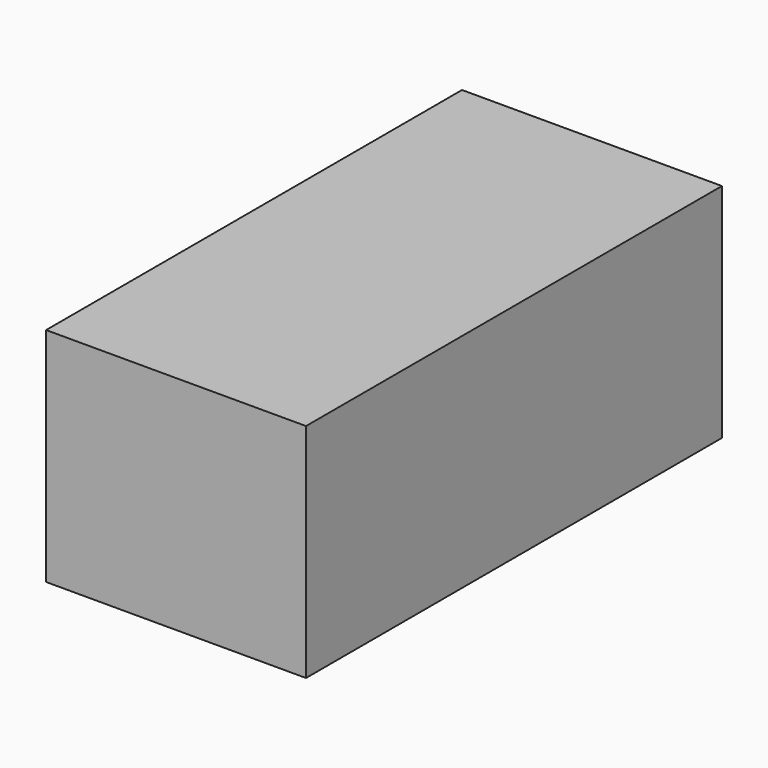
from build123d import *

# Parameters (mm, degrees)
F0_W     = 3000
F0_H     = 2560
F1_DEPTH = 3000
F3_W     = 740
F3_H     = 350
F4_DEPTH = 100
F5_R     = 24
F6_DEPTH = 32


with BuildPart() as f1:
    # F0 (on Front) → F1 (new body, symmetric)
    with BuildSketch(Plane.XZ):
        Rectangle(F0_W, F0_H)
    extrude(amount=F1_DEPTH, both=True)

    # F3 (on face) → F4 (cut)
    with BuildSketch(Plane(origin=(0, 3000, 0), x_dir=(-1, 0, 0), z_dir=(0, 1, 0))):
        with Locations((0, -1055)):
            Rectangle(F3_W, F3_H)
    extrude(amount=-F4_DEPTH, mode=Mode.SUBTRACT)

    # F5 (on face) → F6 (join)
    with BuildSketch(Plane(origin=(0, 2900, 0), x_dir=(-1, 0, 0), z_dir=(0, 1, 0))):
        with Locations((-336, -911)):
            Circle(F5_R)
        with Locations((-336, -1007)):
            Circle(F5_R)
        with Locations((-336, -1103)):
            Circle(F5_R)
        with Locations((-336, -1199)):
            Circle(F5_R)
        with Locations((-240, -911)):
            Circle(F5_R)
        with Locations((-240, -1007)):
            Circle(F5_R)
        with Locations((-240, -1103)):
            Circle(F5_R)
        with Locations((-240, -1199)):
            Circle(F5_R)
        with Locations((-144, -911)):
            Circle(F5_R)
        with Locations((-144, -1007)):
            Circle(F5_R)
        with Locations((-144, -1103)):
            Circle(F5_R)
        with Locations((-144, -1199)):
            Circle(F5_R)
        with Locations((-48, -911)):
            Circle(F5_R)
        with Locations((-48, -1007)):
            Circle(F5_R)
        with Locations((-48, -1103)):
            Circle(F5_R)
        with Locations((-48, -1199)):
            Circle(F5_R)
        with Locations((48, -911)):
            Circle(F5_R)
        with Locations((48, -1007)):
            Circle(F5_R)
        with Locations((48, -1103)):
            Circle(F5_R)
        with Locations((48, -1199)):
            Circle(F5_R)
        with Locations((144, -911)):
            Circle(F5_R)
        with Locations((144, -1007)):
            Circle(F5_R)
        with Locations((144, -1103)):
            Circle(F5_R)
        with Locations((144, -1199)):
            Circle(F5_R)
        with Locations((240, -911)):
            Circle(F5_R)
        with Locations((240, -1007)):
            Circle(F5_R)
        with Locations((240, -1103)):
            Circle(F5_R)
        with Locations((240, -1199)):
            Circle(F5_R)
        with Locations((336, -911)):
            Circle(F5_R)
        with Locations((336, -1007)):
            Circle(F5_R)
        with Locations((336, -1103)):
            Circle(F5_R)
        with Locations((336, -1199)):
            Circle(F5_R)
    extrude(amount=F6_DEPTH)


solid = f1.part
